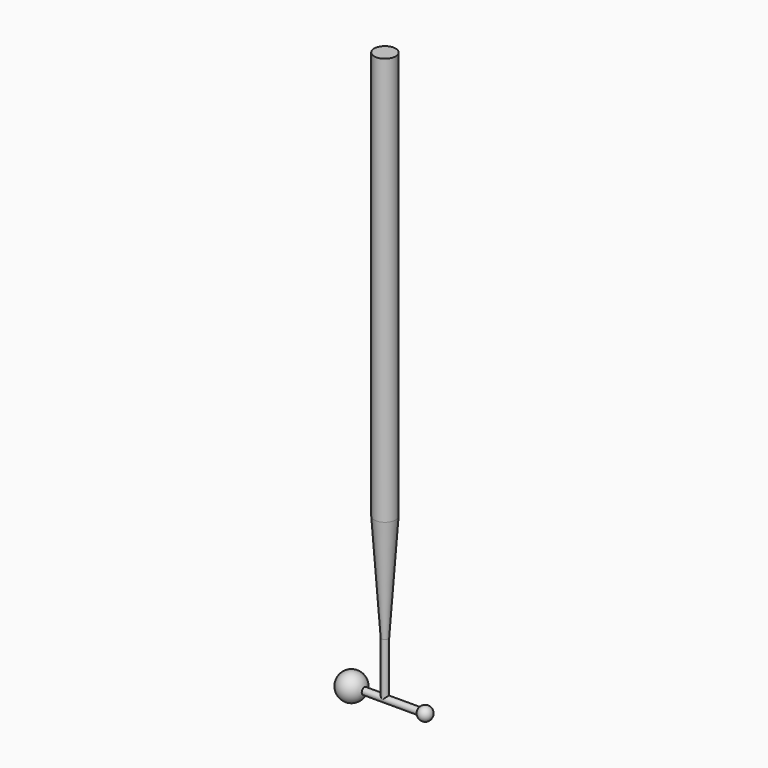
from build123d import *

# Parameters (mm, degrees)
CYLINDER001_R        = 0.625
CYLINDER001_DEPTH    = 10
CYLINDER002_R        = 2
CYLINDER002_DEPTH    = 76.2
CYLINDER_R           = 0.625
CYLINDER_DEPTH       = 13.75
CYLINDER_PITCH_ANGLE = -90


with BuildPart() as cylinder001:
    # Cylinder001 → Cylinder001 (new body)
    with BuildSketch(Plane.XY):
        Circle(CYLINDER001_R)
    extrude(amount=CYLINDER001_DEPTH)


with BuildPart() as cylinder002:
    # Cylinder002 → Cylinder002 (new body)
    with BuildSketch(Plane.XY.offset(30)):
        Circle(CYLINDER002_R)
    extrude(amount=CYLINDER002_DEPTH)


with BuildPart() as cone:
    # Cone → Cone (revolve)
    with BuildSketch(Plane(origin=(0, 0, 10), x_dir=(1, 0, 0), z_dir=(0, -1, 0))):
        Polygon((0, 0), (0.625, 0), (2, 20), (0, 20), align=None)
    revolve(axis=Axis((0, 0, 10), (0, 0, 1)))


with BuildPart() as sphere001:
    # Sphere001 → Sphere001 (revolve)
    with BuildSketch(Plane(origin=(7.5, 0, 0), x_dir=(1, 0, 0), z_dir=(0, -1, 0))):
        with BuildLine():
            ThreePointArc((0, -1.25), (1.25, 0), (0, 1.25))
            Line((0, 1.25), (0, -1.25))
        make_face()
    revolve(axis=Axis((7.5, 0, 0), (0, 0, 1)))


with BuildPart() as cylinder:
    # Cylinder → Cylinder (new body)
    with BuildSketch(Plane.XY):
        Circle(CYLINDER_R)
    extrude(amount=CYLINDER_DEPTH)


with BuildPart() as cylinder_1:
    # Cylinder pitch: moved
    add(cylinder.part.rotate(Axis((0, 0, 0), (0, 1, 0)), CYLINDER_PITCH_ANGLE))


with BuildPart() as cylinder_2:
    # Cylinder placement: moved
    add(cylinder_1.part.moved(Location((6.875, 0, 0))))


with BuildPart() as fusion:
    # Sphere → Sphere (revolve)
    with BuildSketch(Plane(origin=(-6.25, 0, 0), x_dir=(1, 0, 0), z_dir=(0, -1, 0))):
        with BuildLine():
            ThreePointArc((0, -2.5), (2.5, 0), (0, 2.5))
            Line((0, 2.5), (0, -2.5))
        make_face()
    revolve(axis=Axis((-6.25, 0, 0), (0, 0, 1)))

    # Fusion: union Cylinder001, Cylinder002, Cone, Sphere001, Cylinder
    add(cylinder001.part)
    add(cylinder002.part)
    add(cone.part)
    add(sphere001.part)
    add(cylinder_2.part)


solid = fusion.part
